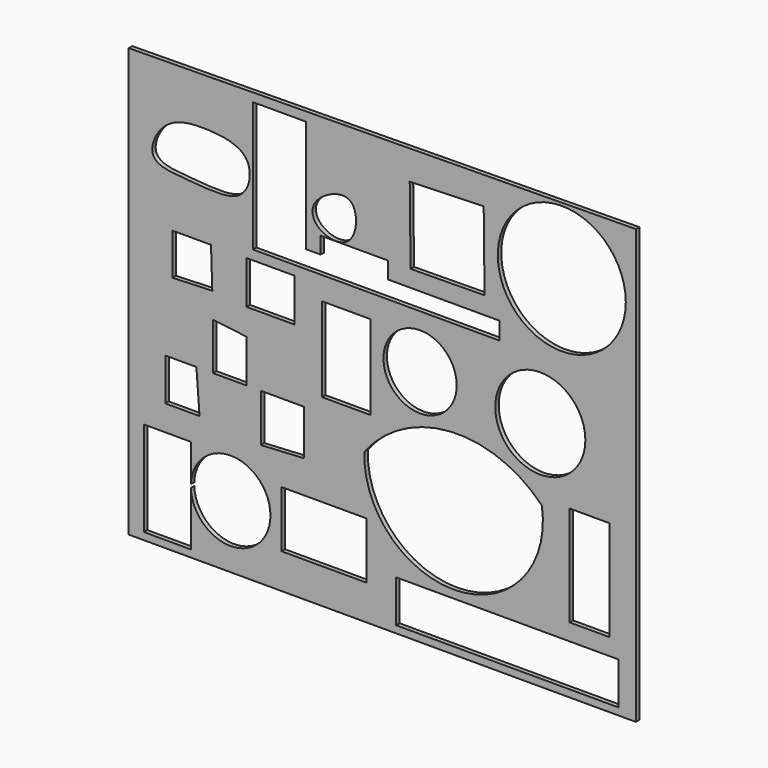
from build123d import *

# Parameters (mm, degrees)
F0_W     = 19.6187430993
F0_H     = 13.0180455744
F0_W_2   = 51.1554153636
F0_H_2   = 9.717695415
F0_W_3   = 9.1676339507
F0_H_3   = 23.1024445966
F0_W_4   = 11.0011650249
F0_H_4   = 9.9090581928
F0_W_5   = 11.1845177598
F0_H_5   = 19.4353917614
F0_R     = 8.4362194628
F0_R_2   = 10.3800985227
F0_R_3   = 14.7436590879
F1_DEPTH = 1


with BuildPart() as f1:
    # F0 (on Front) → F1 (new body)
    with BuildSketch(Plane.XZ):
        Polygon((65.9153088927, 46.5715937316), (-50.8803874254, 45.2881269157), (-50.8803874254, -53.3556491137), (65.9153088927, -53.3556491137), align=None)
        with BuildLine():
            ThreePointArc((-36.5788713098, -38.504075259), (-27.227845658, -29.6976476178), (-18.236268467, -38.8707816601))
            ThreePointArc((-18.236268467, -38.8707816601), (-27.227845658, -48.0439157024), (-36.5788713098, -39.2374880612))
            Line((-36.5788713098, -39.2374880612), (-36.5788713098, -51.7054721713))
            Line((-36.5788713098, -51.7054721713), (-47.3966822028, -51.7054721713))
            Line((-47.3966822028, -51.7054721713), (-47.3966822028, -29.8864971846))
            Line((-47.3966822028, -29.8864971846), (-36.5788713098, -29.8864971846))
            Line((-36.5788713098, -29.8864971846), (-36.5788713098, -38.504075259))
        make_face(mode=Mode.SUBTRACT)
        with Locations((-5.8672870509, -38.7791041285)):
            Rectangle(F0_W, F0_H, mode=Mode.SUBTRACT)
        Polygon((-42.4461588264, -14.3015133217), (-35.2954007685, -14.3015133217), (-34.5619916916, -24.019209668), (-42.4461588264, -24.019209668), align=None, mode=Mode.SUBTRACT)
        Polygon((-31.4449965954, -14.3015133217), (-31.4449965954, -3.4837021958), (-23.7441807985, -4.4004661031), (-23.7441807985, -14.3015133217), align=None, mode=Mode.SUBTRACT)
        Polygon((-10.5427829549, -24.7526206076), (-20.4438306391, -25.3026783466), (-20.4438306391, -14.3015133217), (-10.5427829549, -14.3015133217), align=None, mode=Mode.SUBTRACT)
        with Locations((36.3038419746, -46.8466244638)):
            Rectangle(F0_W_2, F0_H_2, mode=Mode.SUBTRACT)
        with BuildLine():
            ThreePointArc((44.2796908319, -16.5017470717), (25.1436526849, -40.1272688946), (3.3920246642, -18.8853312284))
            ThreePointArc((3.3920246642, -18.8853312284), (23.29160868, -8.3575674607), (44.2796908319, -16.5017470717))
        make_face(mode=Mode.SUBTRACT)
        with Locations((55.2808530629, -26.5861465596)):
            Rectangle(F0_W_3, F0_H_3, mode=Mode.SUBTRACT)
        Polygon((-40.7959856093, 2.0168800838), (-40.7959856093, 10.4511063546), (-40.7959856093, 11.5592328068), (-31.9293554408, 11.5592328068), (-31.6319303269, 2.3116177173), align=None, mode=Mode.SUBTRACT)
        with Locations((-18.2435982861, 6.6047037104)):
            Rectangle(F0_W_4, F0_H_4, mode=Mode.SUBTRACT)
        with Locations((-0.7334102411, -1.2834691443)):
            Rectangle(F0_W_5, F0_H_5, mode=Mode.SUBTRACT)
        with BuildLine():
            add(Edge.make_bspline(
                [(-36.3955199718, 22.91909419), (-40.3692436742, 23.2173613235), (-47.6988040414, 23.4513357592), (-42.9374028879, 34.1746216584), (-33.0552959902, 35.1245405062), (-21.8470292719, 33.3889159272), (-23.5433606261, 21.574130731), (-31.9091596533, 22.5823486253), (-36.3955199718, 22.91909419)],
                knots=[0, 0, 0, 0, 0.1664989371, 0.3174094582, 0.4918255897, 0.6618626164, 0.8120215998, 1, 1, 1, 1], degree=3))
        make_face(mode=Mode.SUBTRACT)
        with BuildLine():
            add(Edge.make_bspline(
                [(0, 22.91909419), (-1.7493788556, 21.0647309914), (-7.778921877, 21.8877975552), (-9.9017590218, 28.5620022365), (2.1822872024, 34.478092849), (1.8949358834, 24.9277496363), (0, 22.91909419)],
                knots=[0, 0, 0, 0, 0.24642613, 0.4580606264, 0.7330699895, 1, 1, 1, 1], degree=3))
        make_face(mode=Mode.SUBTRACT)
        Polygon((-22.2773589194, 13.7514555827), (-22.2773589194, 17.7852157503), (-22.2773589194, 43.6379536986), (-9.9927242845, 43.6379536986), (-9.9927242845, 17.7852157503), (-6.6923755221, 17.7852157503), (-6.6923755221, 21.6317051071), (8.8926088065, 21.6317051071), (8.8926088065, 17.7852157503), (34.5619954169, 17.7852157503), (34.5619954169, 13.7514555827), align=None, mode=Mode.SUBTRACT)
        with Locations((16.2267182022, 1.4668219956)):
            Circle(F0_R, mode=Mode.SUBTRACT)
        with Locations((43.9129844308, 0)):
            Circle(F0_R_2, mode=Mode.SUBTRACT)
        Polygon((14.0366028987, 21.6317051071), (13.8431331143, 39.2374880612), (30.8768302154, 39.7853319379), (31.0742628188, 21.8189317928), align=None, mode=Mode.SUBTRACT)
        with Locations((48.8635078073, 30.9866126627)):
            Circle(F0_R_3, mode=Mode.SUBTRACT)
    extrude(amount=-F1_DEPTH)


solid = f1.part
